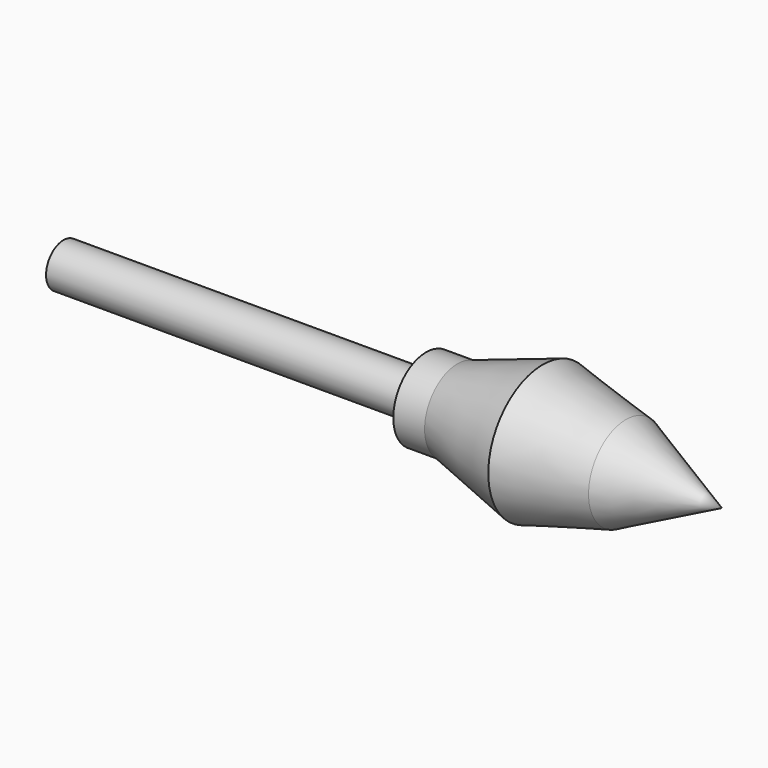
from build123d import *

# Parameters (mm, degrees)
F0_W = 152.7020987123
F0_H = 9.1986432672


with BuildPart() as f1:
    # F0 (on Top) → F1 (revolve)
    with BuildSketch(Plane.XY):
        with Locations((-56.58857245, 4.5993216336)):
            Rectangle(F0_W, F0_H)
        Polygon((19.7624769062, 9.1986432672), (19.7624769062, 0), (144.3259716034, 0), (103.9027273655, 19.6787454188), (68.869240582, 28.6616887897), (32.9374596477, 17.2832943499), (19.7624769062, 17.2832943499), align=None)
    revolve(axis=Axis((82.0442242548, 0, 0), (1, 0, 0)))


solid = f1.part
